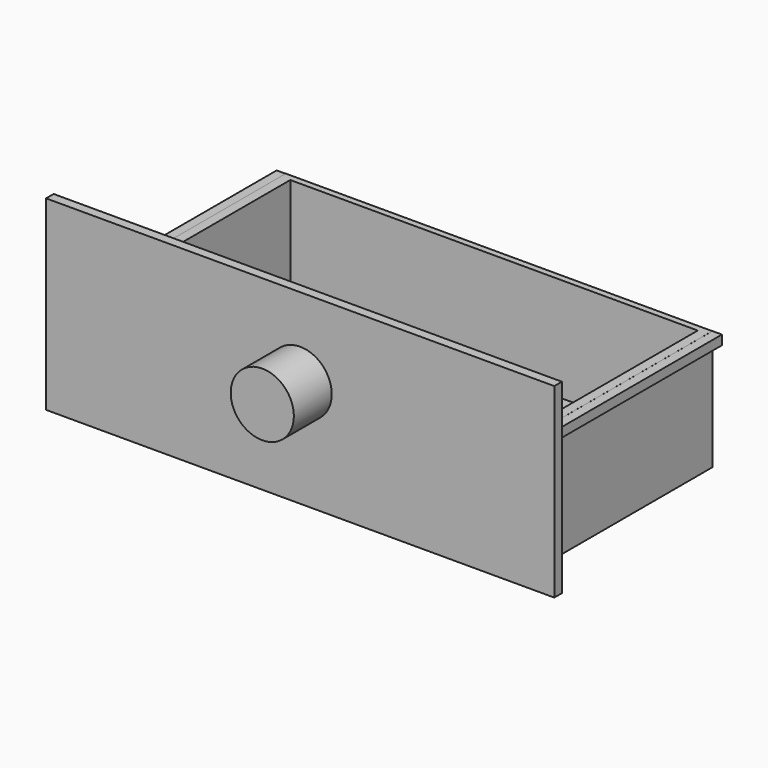
from build123d import *

# Parameters (mm, degrees)
F0_W      = 135.1
F0_H      = 38
F1_DEPTH  = 76
F2_W      = 3
F2_H      = 59
F3_DEPTH  = 80.5
F4_W      = 129.1
F4_H      = 73
F5_DEPTH  = 35
F6_W      = 3
F6_H      = 3
F7_DEPTH  = 76
F8_W      = 3
F8_H      = 3
F9_DEPTH  = 76
F10_R     = 10
F11_DEPTH = 15


with BuildPart() as f1:
    # F0 (on Front) → F1 (new body)
    with BuildSketch(Plane.XZ):
        with Locations((-0.409585, -21.065706)):
            Rectangle(F0_W, F0_H)
    extrude(amount=F1_DEPTH)

    # F4 (on Top) → F5 (cut)
    with BuildSketch(Plane.XY):
        with Locations((-0.409585, -38.5)):
            Rectangle(F4_W, F4_H)
    extrude(amount=-F5_DEPTH, mode=Mode.SUBTRACT)

    # F8 (on Front) → F9 (join)
    with BuildSketch(Plane.XZ):
        with Locations((-69.368881, -3.62545)):
            Rectangle(F8_W, F8_H)
    extrude(amount=F9_DEPTH)


with BuildPart() as f3:
    # F2 (on Right) → F3 (new body, symmetric)
    with BuildSketch(Plane.YZ):
        with Locations((-77.781531, -10.322884)):
            Rectangle(F2_W, F2_H)
    extrude(amount=F3_DEPTH, both=True)

    # F10 (on face) → F11 (join)
    with BuildSketch(Plane.XZ.offset(79.281531)):
        with Locations((0, -6.018927)):
            Circle(F10_R)
    extrude(amount=F11_DEPTH)


with BuildPart() as f7:
    # F6 (on Front) → F7 (new body)
    with BuildSketch(Plane.XZ):
        with Locations((68.694767, -3.53122)):
            Rectangle(F6_W, F6_H)
    extrude(amount=F7_DEPTH)


solid = Compound([f1.part, f3.part, f7.part])
